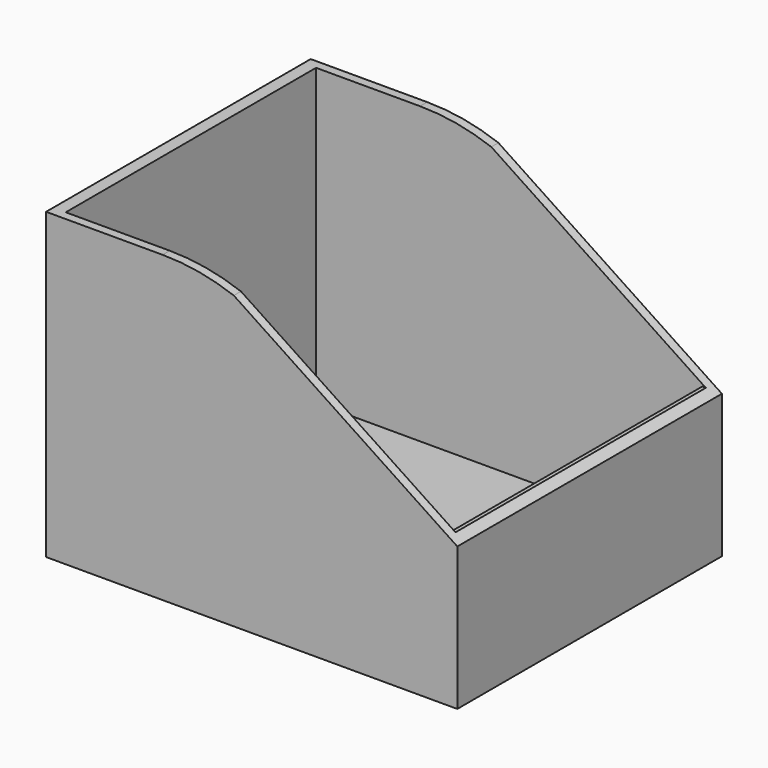
from build123d import *

# Parameters (mm, degrees)
F1_DEPTH = 92.5
F2_W     = 220
F2_H     = 175
F3_DEPTH = 200
F4_DEPTH = 195
F5_DEPTH = 2
F6_DEPTH = 2


with BuildPart() as f1:
    # F0 (on Front) → F1 (new body, symmetric)
    with BuildSketch(Plane.XZ):
        with BuildLine():
            Line((-39.8502688743, 141.3978409826), (-105.0004470674, 141.3978409826))
            Line((-105.0004470674, 141.3978409826), (-105.0004470674, -28.6021590174))
            Line((-105.0004470674, -28.6021590174), (124.9995529326, -28.6021590174))
            Line((124.9995529326, -28.6021590174), (124.9995529326, 51.3978409826))
            Line((124.9995529326, 51.3978409826), (0, 134.314134717))
            ThreePointArc((0, 134.314134717), (-19.6127861763, 139.6131417621), (-39.8502688743, 141.3978409826))
        make_face()
    extrude(amount=F1_DEPTH, both=True)

    # F2 (on face) → F3 (join)
    with BuildSketch(Plane(origin=(0, 0, -28.6021590174), x_dir=(1, 0, 0), z_dir=(0, 0, -1))):
        with Locations((9.9995529326, 0)):
            Rectangle(F2_W, F2_H)
    extrude(amount=-F3_DEPTH)

    # F4 (cut): a face of the model
    f4_faces = [f1.faces().sort_by_distance(p)[0] for p in [
        (9.9995529326, 0, 171.3978409826),
    ]]
    extrude(f4_faces, amount=-F4_DEPTH, mode=Mode.SUBTRACT)

    # F5 (add): a face of the model
    f5_faces = [f1.faces().sort_by_distance(p)[0] for p in [
        (-100.0004470674, 0, 58.8978409826),
    ]]
    extrude(f5_faces, amount=F5_DEPTH)

    # F6 (add): a face of the model
    f6_faces = [f1.faces().sort_by_distance(p)[0] for p in [
        (119.9995529326, 0, 15.5561727884),
    ]]
    extrude(f6_faces, amount=F6_DEPTH)


solid = f1.part
